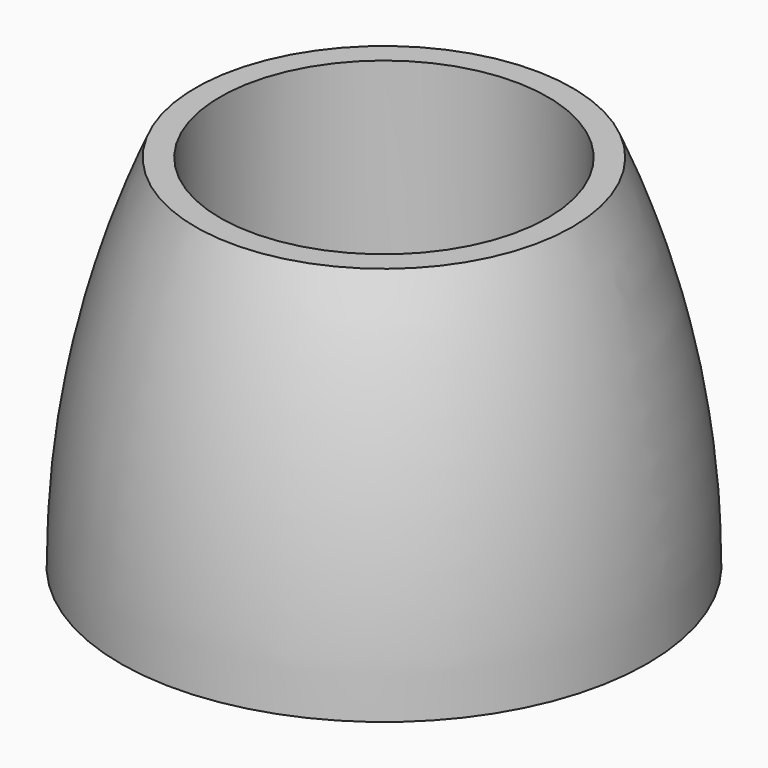
from build123d import *


with BuildPart() as f1:
    # F0 (on Front) → F1 (revolve)
    with BuildSketch(Plane.XZ):
        with BuildLine():
            ThreePointArc((7.439488, 0), (6.903708, 5.189465), (5.318972, 10.16))
            Line((5.318972, 10.16), (4.625, 10.16))
            Line((4.625, 10.16), (4.625, 0))
            Line((4.625, 0), (7.439488, 0))
        make_face()
    revolve(axis=Axis((0, 0, 0), (0, 0, -1)))


solid = f1.part
